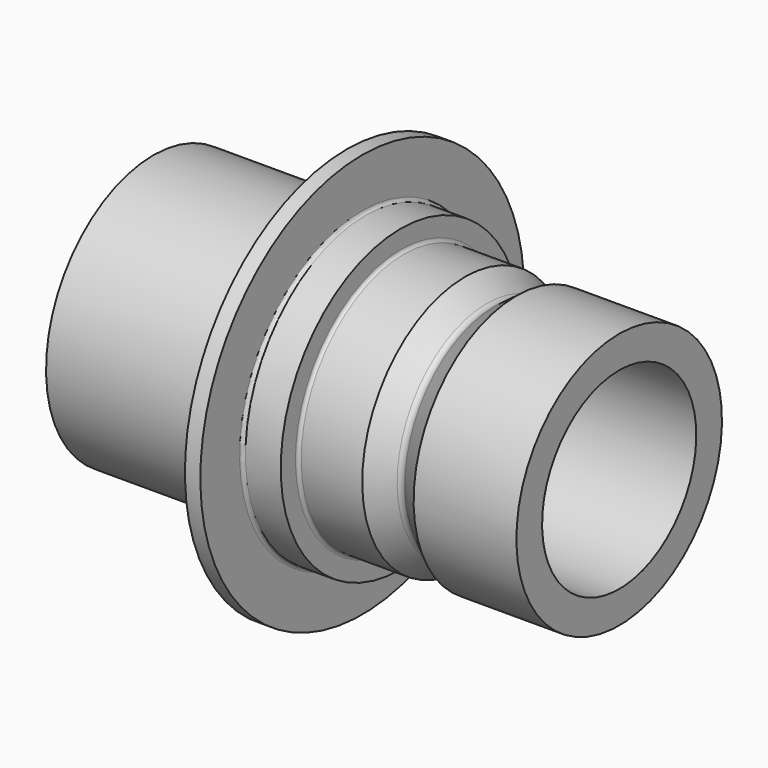
from build123d import *


with BuildPart() as f1:
    # F0 (on Front) → F1 (revolve)
    with BuildSketch(Plane.XZ):
        with BuildLine():
            Line((-36.25, 7.5), (0, 7.5))
            Line((0, 7.5), (0, 10))
            Line((0, 10), (-8, 10))
            Line((-8, 10), (-9.7, 8.725))
            ThreePointArc((-9.7, 8.725), (-10, 8.625), (-10.3, 8.725))
            Line((-10.3, 8.725), (-12, 10))
            Line((-12, 10), (-16.75, 10))
            ThreePointArc((-16.75, 10), (-16.926777, 10.073223), (-17, 10.25))
            Line((-17, 10.25), (-17, 11.678045))
            Line((-17, 11.678045), (-19.75, 11.678045))
            ThreePointArc((-19.75, 11.678045), (-19.926777, 11.751268), (-20, 11.928045))
            Line((-20, 11.928045), (-20, 15.75))
            Line((-20, 15.75), (-21.2, 15.75))
            Line((-21.2, 15.75), (-22.010581, 11.658496))
            ThreePointArc((-22.010581, 11.658496), (-22.529948, 10.79085), (-23.481984, 10.45))
            Line((-23.481984, 10.45), (-36.25, 10.45))
            Line((-36.25, 10.45), (-36.25, 7.5))
        make_face()
    revolve(axis=Axis((-11.001655, 0, 0), (-1, 0, 0)))


solid = f1.part
